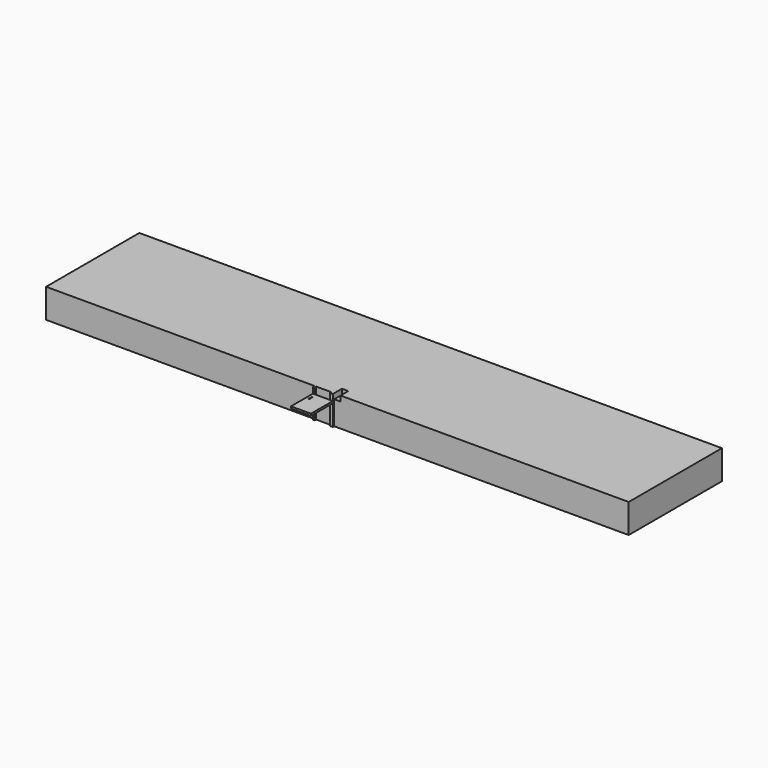
from build123d import *

# Parameters (mm, degrees)
F0_W      = 15240
F0_H      = 3048
F1_DEPTH  = 762
F2_W      = 165.1
F2_H      = 254
F3_DEPTH  = 139.7
F4_W      = 76.2
F4_H      = 762
F5_DEPTH  = 44.45
F6_W      = 522.2875
F6_H      = 50.8
F7_DEPTH  = 717.55
F8_W      = 50.8
F8_H      = 762
F9_DEPTH  = 44.45
F11_DEPTH = 50.8


with BuildPart() as f1:
    # F0 (on Top) → F1 (new body)
    with BuildSketch(Plane.XY):
        Rectangle(F0_W, F0_H)
    extrude(amount=F1_DEPTH)

    # F2 (on face) → F3 (cut)
    with BuildSketch(Plane.XY.offset(762)):
        with Locations((0, -1397)):
            Rectangle(F2_W, F2_H)
    extrude(amount=-F3_DEPTH, mode=Mode.SUBTRACT)

    # F4 (on face) → F5 (join)
    with BuildSketch(Plane.XZ.offset(1524)):
        with Locations((-120.65, 381)):
            Rectangle(F4_W, F4_H)
    extrude(amount=F5_DEPTH)

    # F6 (on face) → F7 (join)
    with BuildSketch(Plane.XZ.offset(1568.45)):
        with Locations((-343.69375, 574.675)):
            Rectangle(F6_W, F6_H)
    extrude(amount=F7_DEPTH)

    # F8 (on face) → F9 (join)
    with BuildSketch(Plane.XZ.offset(1524)):
        with Locations((-579.4375, 381)):
            Rectangle(F8_W, F8_H)
    extrude(amount=F9_DEPTH)

    # F10 (on face) → F11 (cut, through all)
    with BuildSketch(Plane.XY.offset(600.075)):
        with BuildLine():
            ThreePointArc((-511.175, -1692.275), (-521.49375, -1681.95625), (-531.8125, -1692.275))
            Line((-531.8125, -1692.275), (-531.8125, -1793.875))
            ThreePointArc((-531.8125, -1793.875), (-521.49375, -1804.19375), (-511.175, -1793.875))
            Line((-511.175, -1793.875), (-511.175, -1692.275))
        make_face()
    extrude(amount=-F11_DEPTH, mode=Mode.SUBTRACT)


solid = f1.part
